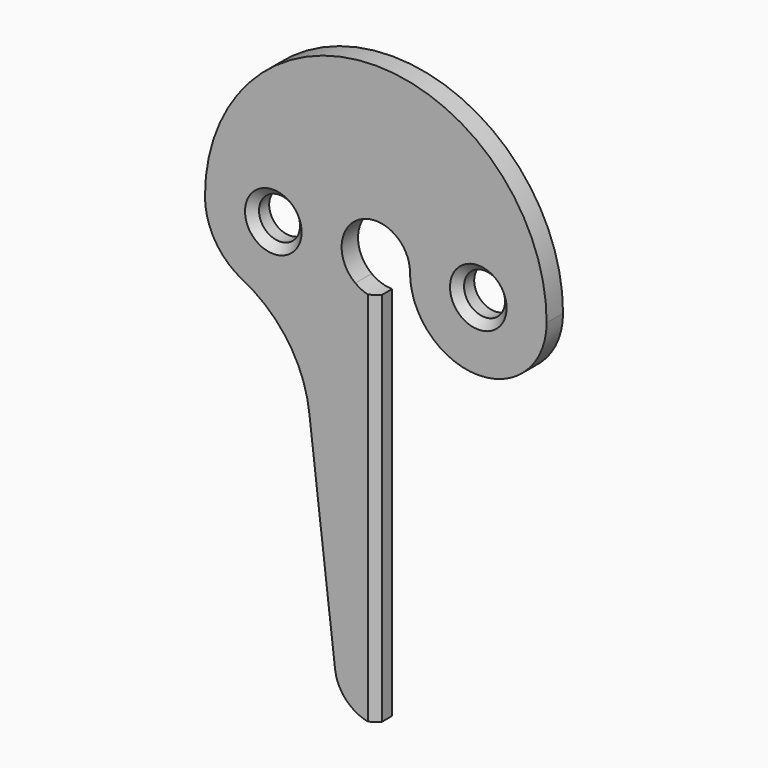
from build123d import *

# Parameters (mm, degrees)
F0_R     = 3.5
F0_R_2   = 3
F1_DEPTH = 3
F2_SIZE  = 1.14


with BuildPart() as f1:
    # F0 (on Front) → F1 (new body)
    with BuildSketch(Plane.XZ):
        with BuildLine():
            ThreePointArc((25, 0), (0, 25), (-25, 0))
            ThreePointArc((-25, 0), (-23.515691, -5.242423), (-19.5034, -8.928571))
            ThreePointArc((-19.5034, -8.928571), (-12.820251, -14.739516), (-9.717181, -23.034244))
            Line((-9.717181, -23.034244), (-5.958185, -54.707128))
            ThreePointArc((-5.958185, -54.707128), (-5.01, -57.301499), (-3, -59.196152))
            Line((-3, -59.196152), (-3, -5))
            Line((-3, -5), (-3, -4))
            ThreePointArc((-3, -4), (-2.236068, 4.472136), (5, 0))
            ThreePointArc((5, 0), (15, -10), (25, 0))
        make_face()
        with Locations((-15, 0)):
            Circle(F0_R, mode=Mode.SUBTRACT)
        with Locations((15, 0)):
            Circle(F0_R, mode=Mode.SUBTRACT)
        with BuildLine():
            ThreePointArc((0, -5), (-1.581139, -4.743416), (-3, -4))
            Line((-3, -4), (-3, -5))
            Line((-3, -5), (-3, -59.196152))
            ThreePointArc((-3, -59.196152), (-1.552914, -59.795555), (0, -60))
            Line((0, -60), (0, -5))
        make_face()
        with Locations((15, 0)):
            Circle(F0_R)
        with Locations((15, 0)):
            Circle(F0_R_2, mode=Mode.SUBTRACT)
        with Locations((-15, 0)):
            Circle(F0_R)
        with Locations((-15, 0)):
            Circle(F0_R_2, mode=Mode.SUBTRACT)
    extrude(amount=F1_DEPTH)

    # F2
    f2_edges = [f1.edges().sort_by_distance(p)[0] for p in [
        (0, -3, -32.5),
        (12, -3, 0),
        (-18, -3, 0),
    ]]
    chamfer(f2_edges, length=F2_SIZE)


solid = f1.part
